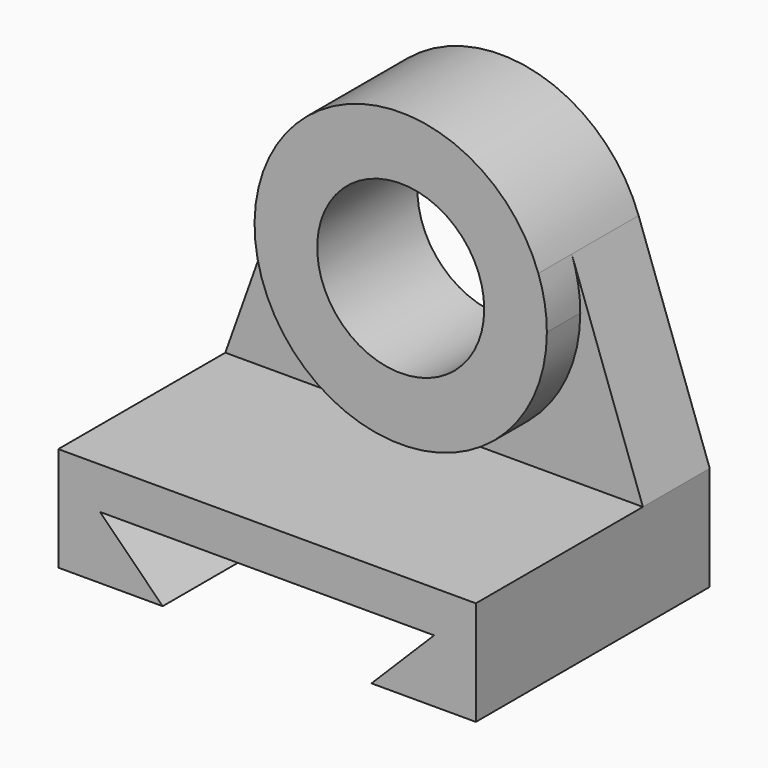
from build123d import *

# Parameters (mm, degrees)
F1_DEPTH = 127
F0_R     = 50.8
F2_DEPTH = 50.8
F3_DEPTH = 25.4


with BuildPart() as f1:
    # F0 (on Front) → F1 (new body)
    with BuildSketch(Plane.XZ):
        Polygon((247.638093, 75.391944), (247.638093, 138.891944), (-6.361907, 138.891944), (-6.361907, 75.391944), (57.138093, 75.391944), (19.038093, 113.491944), (222.238093, 113.491944), (184.138093, 75.391944), align=None)
    extrude(amount=F1_DEPTH)

    # F0 (on Front) → F2 (join)
    with BuildSketch(Plane.XZ):
        with BuildLine():
            Line((-6.361907, 138.891944), (247.638093, 138.891944))
            Line((247.638093, 138.891944), (204.371332, 260.197554))
            ThreePointArc((204.371332, 260.197554), (208.23688, 245.486564), (209.538093, 230.331944))
            ThreePointArc((209.538093, 230.331944), (105.483473, 142.733157), (36.904854, 260.197554))
            Line((36.904854, 260.197554), (-6.361907, 138.891944))
        make_face()
        with BuildLine():
            ThreePointArc((209.538093, 230.331944), (208.23688, 245.486564), (204.371332, 260.197554))
            ThreePointArc((204.371332, 260.197554), (120.638093, 319.231944), (36.904854, 260.197554))
            ThreePointArc((36.904854, 260.197554), (105.483473, 142.733157), (209.538093, 230.331944))
        make_face()
        with Locations((120.638093, 230.331944)):
            Circle(F0_R, mode=Mode.SUBTRACT)
        Polygon((247.638093, 75.391944), (247.638093, 138.891944), (-6.361907, 138.891944), (-6.361907, 75.391944), (57.138093, 75.391944), (19.038093, 113.491944), (222.238093, 113.491944), (184.138093, 75.391944), align=None)
    extrude(amount=-F2_DEPTH)

    # F0 (on Front) → F3 (join)
    with BuildSketch(Plane.XZ):
        with BuildLine():
            ThreePointArc((209.538093, 230.331944), (208.23688, 245.486564), (204.371332, 260.197554))
            ThreePointArc((204.371332, 260.197554), (120.638093, 319.231944), (36.904854, 260.197554))
            ThreePointArc((36.904854, 260.197554), (105.483473, 142.733157), (209.538093, 230.331944))
        make_face()
        with Locations((120.638093, 230.331944)):
            Circle(F0_R, mode=Mode.SUBTRACT)
    extrude(amount=F3_DEPTH)


solid = f1.part
